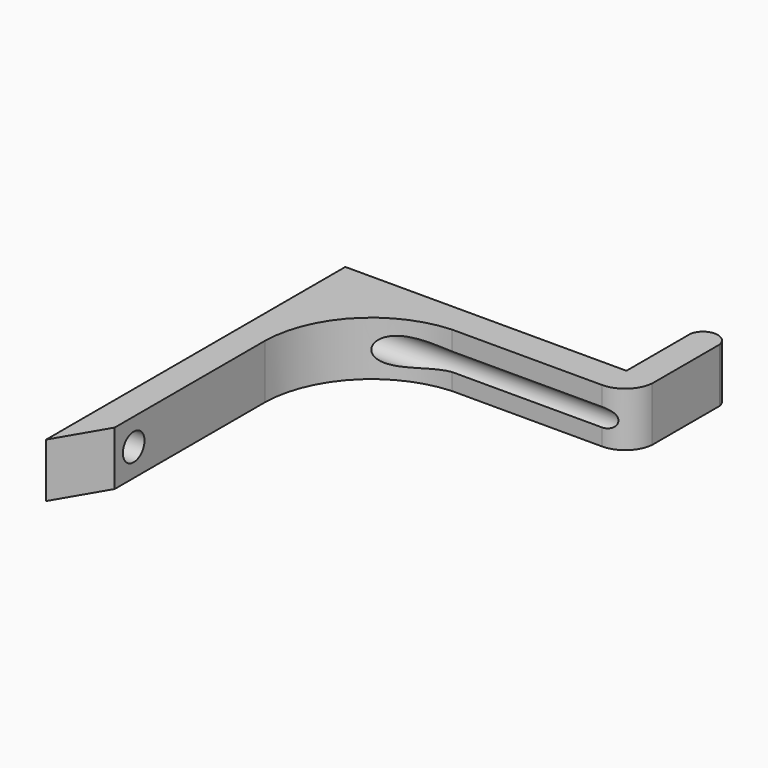
from build123d import *

# Parameters (mm, degrees)
F1_DEPTH = 12.7
F3_D     = 6.35
F5_DEPTH = 12.701


with BuildPart() as f1:
    # F0 (on Top) → F1 (new body)
    with BuildSketch(Plane.XY):
        with BuildLine():
            Line((-57.44794, 20.666091), (-64.273439, 20.666091))
            Line((-64.273439, 20.666091), (-64.273439, -67.117393))
            Line((-64.273439, -67.117393), (-57.44794, -67.117393))
            Line((-57.44794, -67.117393), (-57.44794, -11.452466))
            ThreePointArc((-57.44794, -11.452466), (-50.363343, 5.745429), (-33.439308, 13.461399))
            Line((-33.439308, 13.461399), (1.706375, 13.461399))
            ThreePointArc((1.706375, 13.461399), (6.33048, 15.256632), (8.531871, 19.701751))
            Line((8.531871, 19.701751), (8.531871, 39.43621))
            ThreePointArc((8.531871, 39.43621), (5.119123, 42.332037), (1.706375, 39.43621))
            Line((1.706375, 39.43621), (1.706375, 20.666091))
            Line((1.706375, 20.666091), (-57.44794, 20.666091))
        make_face()
    extrude(amount=F1_DEPTH)

    # F3 (through all)
    with Locations(Plane(origin=(-64.273439, 0, 0), x_dir=(0, -1, 0), z_dir=(-1, 0, 0))):
        with Locations((-11.100469, 6.05725), (49.949814, 6.436449)):
            Hole(F3_D / 2)

    # F4 (on face) → F5 (cut, through all)
    with BuildSketch(Plane(origin=(0, 0, 0), x_dir=(1, 0, 0), z_dir=(0, 0, -1))):
        Polygon((-57.44794, 67.117393), (-64.273439, 67.117393), (-57.44794, 55.511292), align=None)
    extrude(amount=-F5_DEPTH, mode=Mode.SUBTRACT)


solid = f1.part
